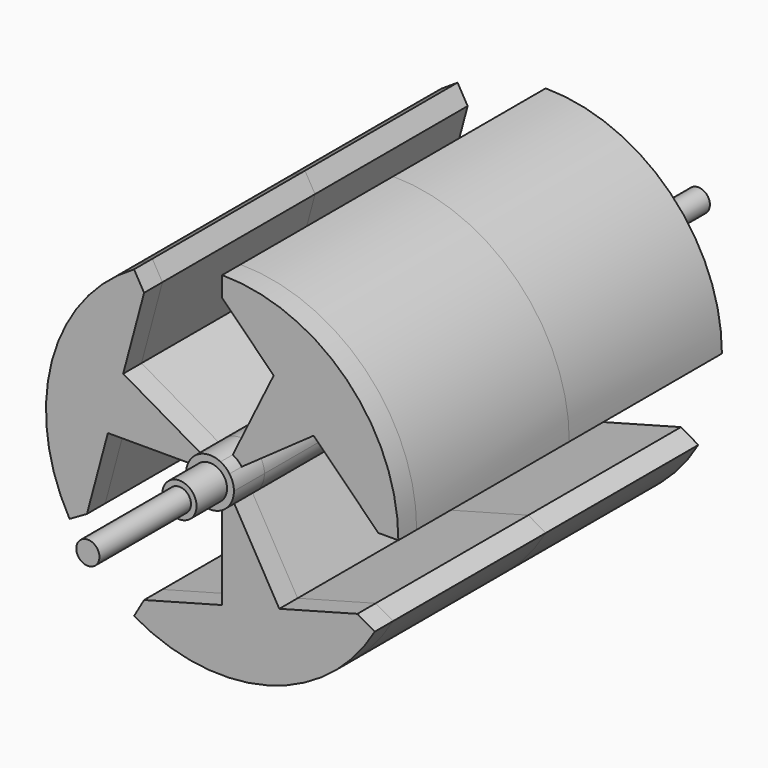
from build123d import *

# Parameters (mm, degrees)
F1_DEPTH = 28
F0_R     = 2.244167
F2_DEPTH = 30
F0_R_2   = 1.517404
F3_DEPTH = 35
F4_DEPTH = 50
F5_DEPTH = 50
F6_DEPTH = 25
F7_DEPTH = 25


with BuildPart() as f1:
    # F0 (on Front) → F1 (new body)
    with BuildSketch(Plane.XZ):
        with BuildLine():
            ThreePointArc((-3.138548, 0), (-3.031604, 0.812316), (-2.718062, 1.569274))
            Line((-2.718062, 1.569274), (-12.971652, 7.489187))
            Line((-12.971652, 7.489187), (-10.23042, 17.719606))
            Line((-10.23042, 17.719606), (-11.545612, 19.997586))
            ThreePointArc((-11.545612, 19.997586), (-22.30441, 5.976449), (-19.997586, -11.545612))
            Line((-19.997586, -11.545612), (-17.719606, -10.23042))
            Line((-17.719606, -10.23042), (-14.978374, 0))
            Line((-14.978374, 0), (-3.138548, 0))
        make_face()
        with BuildLine():
            ThreePointArc((1.38747, 2.81521), (2.038439, 2.386472), (2.563677, 1.810537))
            Line((2.563677, 1.810537), (11.989142, 8.467054))
            Line((11.989142, 8.467054), (20.460839, 0))
            Line((20.460839, 0), (23.091224, 0))
            ThreePointArc((23.091224, 0), (16.327961, 16.327961), (0, 23.091224))
            Line((0, 23.091224), (0, 20.449624))
            Line((0, 20.449624), (6.752447, 13.700878))
            Line((6.752447, 13.700878), (1.38747, 2.81521))
        make_face()
        with BuildLine():
            Line((7.489187, -12.971652), (1.569274, -2.718062))
            ThreePointArc((1.569274, -2.718062), (0.812316, -3.031604), (0, -3.138548))
            Line((0, -3.138548), (0, -14.978374))
            Line((0, -14.978374), (-10.23042, -17.719606))
            Line((-10.23042, -17.719606), (-11.545612, -19.997586))
            ThreePointArc((-11.545612, -19.997586), (5.976449, -22.30441), (19.997586, -11.545612))
            Line((19.997586, -11.545612), (17.719606, -10.23042))
            Line((17.719606, -10.23042), (7.489187, -12.971652))
        make_face()
    extrude(amount=F1_DEPTH)


with BuildPart() as f2:
    # F0 (on Front) → F2 (new body)
    with BuildSketch(Plane.XZ):
        with BuildLine():
            ThreePointArc((1.569274, -2.718062), (2.718062, -1.569274), (3.138548, 0))
            ThreePointArc((3.138548, 0), (2.99138, 0.949806), (2.563677, 1.810537))
            ThreePointArc((2.563677, 1.810537), (2.038439, 2.386472), (1.38747, 2.81521))
            ThreePointArc((1.38747, 2.81521), (-0.911432, 3.003294), (-2.718062, 1.569274))
            ThreePointArc((-2.718062, 1.569274), (-3.031604, 0.812316), (-3.138548, 0))
            ThreePointArc((-3.138548, 0), (-2.219288, -2.219288), (0, -3.138548))
            ThreePointArc((0, -3.138548), (0.812316, -3.031604), (1.569274, -2.718062))
        make_face()
        Circle(F0_R, mode=Mode.SUBTRACT)
    extrude(amount=F2_DEPTH)

    # F0 (on Front) → F3 (join)
    with BuildSketch(Plane.XZ):
        Circle(F0_R)
        Circle(F0_R_2, mode=Mode.SUBTRACT)
    extrude(amount=F3_DEPTH)

    # F0 (on Front) → F4 (join)
    with BuildSketch(Plane.XZ):
        Circle(F0_R_2)
    extrude(amount=F4_DEPTH)

    # F0 (on Front) → F5 (join)
    with BuildSketch(Plane.XZ):
        Circle(F0_R_2)
    extrude(amount=-F5_DEPTH)


with BuildPart() as f6:
    # F0 (on Front) → F6 (new body)
    with BuildSketch(Plane.XZ):
        with BuildLine():
            ThreePointArc((1.38747, 2.81521), (2.038439, 2.386472), (2.563677, 1.810537))
            Line((2.563677, 1.810537), (11.989142, 8.467054))
            Line((11.989142, 8.467054), (20.460839, 0))
            Line((20.460839, 0), (23.091224, 0))
            ThreePointArc((23.091224, 0), (16.327961, 16.327961), (0, 23.091224))
            Line((0, 23.091224), (0, 20.449624))
            Line((0, 20.449624), (6.752447, 13.700878))
            Line((6.752447, 13.700878), (1.38747, 2.81521))
        make_face()
        with BuildLine():
            ThreePointArc((-3.138548, 0), (-3.031604, 0.812316), (-2.718062, 1.569274))
            Line((-2.718062, 1.569274), (-12.971652, 7.489187))
            Line((-12.971652, 7.489187), (-10.23042, 17.719606))
            Line((-10.23042, 17.719606), (-11.545612, 19.997586))
            ThreePointArc((-11.545612, 19.997586), (-22.30441, 5.976449), (-19.997586, -11.545612))
            Line((-19.997586, -11.545612), (-17.719606, -10.23042))
            Line((-17.719606, -10.23042), (-14.978374, 0))
            Line((-14.978374, 0), (-3.138548, 0))
        make_face()
        with BuildLine():
            Line((7.489187, -12.971652), (1.569274, -2.718062))
            ThreePointArc((1.569274, -2.718062), (0.812316, -3.031604), (0, -3.138548))
            Line((0, -3.138548), (0, -14.978374))
            Line((0, -14.978374), (-10.23042, -17.719606))
            Line((-10.23042, -17.719606), (-11.545612, -19.997586))
            ThreePointArc((-11.545612, -19.997586), (5.976449, -22.30441), (19.997586, -11.545612))
            Line((19.997586, -11.545612), (17.719606, -10.23042))
            Line((17.719606, -10.23042), (7.489187, -12.971652))
        make_face()
        with BuildLine():
            ThreePointArc((1.569274, -2.718062), (2.718062, -1.569274), (3.138548, 0))
            ThreePointArc((3.138548, 0), (2.99138, 0.949806), (2.563677, 1.810537))
            ThreePointArc((2.563677, 1.810537), (2.038439, 2.386472), (1.38747, 2.81521))
            ThreePointArc((1.38747, 2.81521), (-0.911432, 3.003294), (-2.718062, 1.569274))
            ThreePointArc((-2.718062, 1.569274), (-3.031604, 0.812316), (-3.138548, 0))
            ThreePointArc((-3.138548, 0), (-2.219288, -2.219288), (0, -3.138548))
            ThreePointArc((0, -3.138548), (0.812316, -3.031604), (1.569274, -2.718062))
        make_face()
        Circle(F0_R, mode=Mode.SUBTRACT)
        Circle(F0_R)
        Circle(F0_R_2, mode=Mode.SUBTRACT)
    extrude(amount=-F6_DEPTH)


with BuildPart() as f7:
    # F0 (on Front) → F7 (new body)
    with BuildSketch(Plane.XZ):
        with BuildLine():
            ThreePointArc((1.569274, -2.718062), (2.718062, -1.569274), (3.138548, 0))
            ThreePointArc((3.138548, 0), (2.99138, 0.949806), (2.563677, 1.810537))
            ThreePointArc((2.563677, 1.810537), (2.038439, 2.386472), (1.38747, 2.81521))
            ThreePointArc((1.38747, 2.81521), (-0.911432, 3.003294), (-2.718062, 1.569274))
            ThreePointArc((-2.718062, 1.569274), (-3.031604, 0.812316), (-3.138548, 0))
            ThreePointArc((-3.138548, 0), (-2.219288, -2.219288), (0, -3.138548))
            ThreePointArc((0, -3.138548), (0.812316, -3.031604), (1.569274, -2.718062))
        make_face()
        Circle(F0_R, mode=Mode.SUBTRACT)
        with BuildLine():
            ThreePointArc((1.38747, 2.81521), (2.038439, 2.386472), (2.563677, 1.810537))
            Line((2.563677, 1.810537), (11.989142, 8.467054))
            Line((11.989142, 8.467054), (20.460839, 0))
            Line((20.460839, 0), (23.091224, 0))
            ThreePointArc((23.091224, 0), (16.327961, 16.327961), (0, 23.091224))
            Line((0, 23.091224), (0, 20.449624))
            Line((0, 20.449624), (6.752447, 13.700878))
            Line((6.752447, 13.700878), (1.38747, 2.81521))
        make_face()
        with BuildLine():
            Line((7.489187, -12.971652), (1.569274, -2.718062))
            ThreePointArc((1.569274, -2.718062), (0.812316, -3.031604), (0, -3.138548))
            Line((0, -3.138548), (0, -14.978374))
            Line((0, -14.978374), (-10.23042, -17.719606))
            Line((-10.23042, -17.719606), (-11.545612, -19.997586))
            ThreePointArc((-11.545612, -19.997586), (5.976449, -22.30441), (19.997586, -11.545612))
            Line((19.997586, -11.545612), (17.719606, -10.23042))
            Line((17.719606, -10.23042), (7.489187, -12.971652))
        make_face()
        with BuildLine():
            ThreePointArc((-3.138548, 0), (-3.031604, 0.812316), (-2.718062, 1.569274))
            Line((-2.718062, 1.569274), (-12.971652, 7.489187))
            Line((-12.971652, 7.489187), (-10.23042, 17.719606))
            Line((-10.23042, 17.719606), (-11.545612, 19.997586))
            ThreePointArc((-11.545612, 19.997586), (-22.30441, 5.976449), (-19.997586, -11.545612))
            Line((-19.997586, -11.545612), (-17.719606, -10.23042))
            Line((-17.719606, -10.23042), (-14.978374, 0))
            Line((-14.978374, 0), (-3.138548, 0))
        make_face()
    extrude(amount=F7_DEPTH)


solid = Compound([f1.part, f2.part, f6.part, f7.part])
